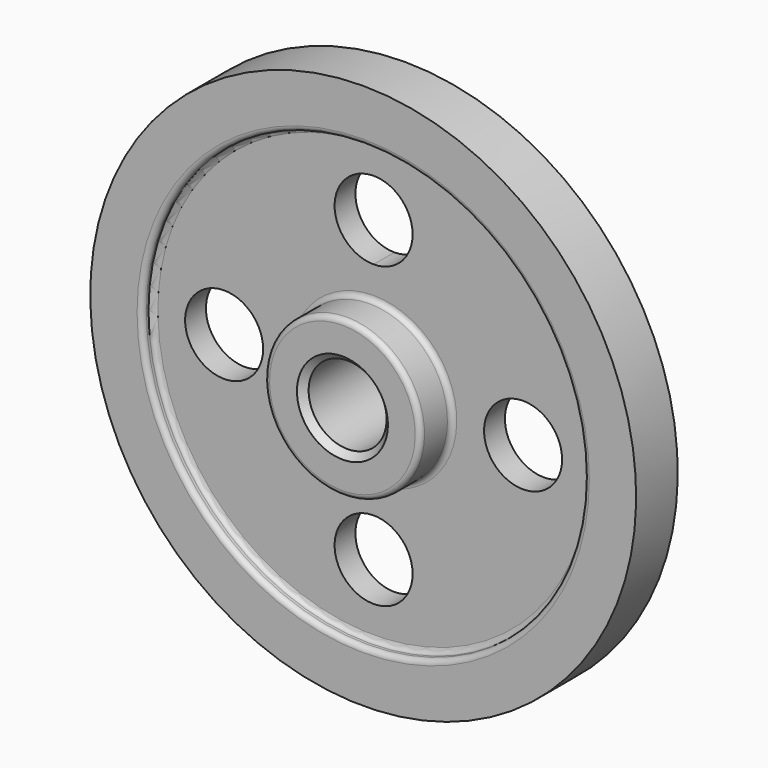
from build123d import *

# Parameters (mm, degrees)
F2_R     = 19.05
F3_DEPTH = 25.4
F4_R     = 2.54
F5_SIZE  = 3.175


with BuildPart() as f1:
    # F0 (on Right) → F1 (revolve)
    with BuildSketch(Plane.YZ):
        Polygon((-25.4, 19.05), (0, 19.05), (25.4, 19.05), (25.4, 38.1), (6.35, 38.1), (6.35, 107.95), (12.7, 107.95), (12.7, 133.35), (0, 133.35), (-12.7, 133.35), (-12.7, 107.95), (-6.35, 107.95), (-6.35, 38.1), (-25.4, 38.1), align=None)
    revolve(axis=Axis((0, -29.684099, 0), (0, -1, 0)))

    # F2 (on face) → F3 (cut)
    with BuildSketch(Plane.XZ.offset(6.35)):
        with Locations((-73.025, 0)):
            Circle(F2_R)
        with BuildLine():
            ThreePointArc((19.05, 73.025), (-13.470384, 86.495384), (0, 53.975))
            ThreePointArc((0, 53.975), (13.470384, 59.554616), (19.05, 73.025))
        make_face()
        with Locations((73.025, 0)):
            Circle(F2_R)
        with Locations((0, -73.025)):
            Circle(F2_R)
    extrude(amount=-F3_DEPTH, mode=Mode.SUBTRACT)

    # F4
    f4_edges = [f1.edges().sort_by_distance(p)[0] for p in [
        (0, -6.35, -107.95),
        (0, -12.7, -107.95),
        (0, -25.4, -38.1),
        (0, -6.35, -38.1),
        (0, -15.875, 38.1),
    ]]
    fillet(f4_edges, radius=F4_R)

    # F5
    f5_edges = [f1.edges().sort_by_distance(p)[0] for p in [
        (0, -25.4, -19.05),
        (0, 25.4, -19.05),
    ]]
    chamfer(f5_edges, length=F5_SIZE)


solid = f1.part
